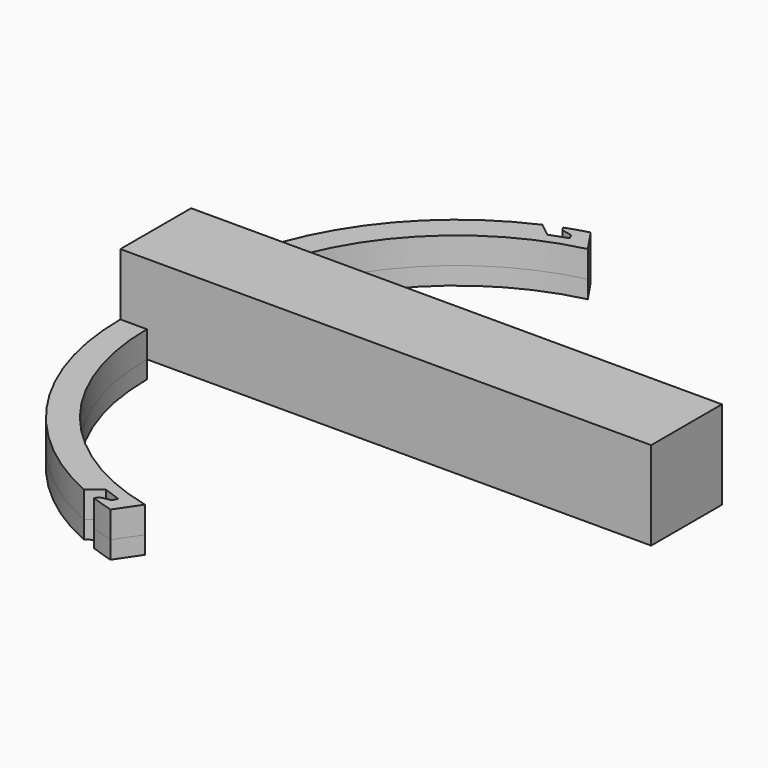
from build123d import *

# Parameters (mm, degrees)
F1_DEPTH = 3
F2_DEPTH = 10
F3_DEPTH = 2
F5_DEPTH = 45


with BuildPart() as f1:
    # F0 (on Top) → F1 (new body)
    with BuildSketch(Plane.XY):
        with BuildLine():
            Line((3, -5), (0, -5))
            ThreePointArc((0, -5), (4.837963, -21.336213), (17.791458, -32.403494))
            Line((17.791458, -32.403494), (19.316092, -31.19313))
            Line((19.316092, -31.19313), (21.280371, -31.899896))
            Line((21.280371, -31.899896), (20.994244, -32.450024))
            Line((20.994244, -32.450024), (19.821469, -32.690592))
            Line((19.821469, -32.690592), (19.52909, -33.113343))
            ThreePointArc((19.52909, -33.113343), (20.769204, -33.544569), (22.026998, -33.921121))
            Line((22.026998, -33.921121), (23.814403, -31.281902))
            ThreePointArc((23.814403, -31.281902), (8.833858, -21.762889), (3, -5))
        make_face()
        with BuildLine():
            ThreePointArc((17.791458, 32.403494), (4.837963, 21.336213), (0, 5))
            Line((0, 5), (3, 5))
            ThreePointArc((3, 5), (8.833858, 21.762889), (23.814403, 31.281902))
            Line((23.814403, 31.281902), (22.026998, 33.921121))
            ThreePointArc((22.026998, 33.921121), (20.769204, 33.544569), (19.52909, 33.113343))
            Line((19.52909, 33.113343), (19.821469, 32.690592))
            Line((19.821469, 32.690592), (20.994244, 32.450024))
            Line((20.994244, 32.450024), (21.280371, 31.899896))
            Line((21.280371, 31.899896), (19.316092, 31.19313))
            Line((19.316092, 31.19313), (17.791458, 32.403494))
        make_face()
    extrude(amount=F1_DEPTH)


with BuildPart() as f2:
    # F0 (on Top) → F2 (new body)
    with BuildSketch(Plane.XY):
        Polygon((0, 5), (0, 0), (0, -5), (3, -5), (60, -5), (60, 0), (60, 5), (3, 5), align=None)
    extrude(amount=F2_DEPTH)

    # F4 (on face) → F5 (cut)
    with BuildSketch(Plane(origin=(0, 0, 0), x_dir=(0, -1, 0), z_dir=(-1, 0, 0))):
        with BuildLine():
            ThreePointArc((-1.5, 0), (0, -1.5), (1.5, 0))
            Line((1.5, 0), (-1.5, 0))
        make_face()
        with BuildLine():
            Line((-1.5, 0), (1.5, 0))
            ThreePointArc((1.5, 0), (0, 1.5), (-1.5, 0))
        make_face()
    extrude(amount=-F5_DEPTH, mode=Mode.SUBTRACT)


with BuildPart() as f3:
    # F0 (on Top) → F3 (new body)
    with BuildSketch(Plane.XY):
        with BuildLine():
            ThreePointArc((17.791458, 32.403494), (4.837963, 21.336213), (0, 5))
            Line((0, 5), (3, 5))
            ThreePointArc((3, 5), (8.833858, 21.762889), (23.814403, 31.281902))
            Line((23.814403, 31.281902), (22.026998, 33.921121))
            ThreePointArc((22.026998, 33.921121), (20.769204, 33.544569), (19.52909, 33.113343))
            Line((19.52909, 33.113343), (19.821469, 32.690592))
            Line((19.821469, 32.690592), (20.994244, 32.450024))
            Line((20.994244, 32.450024), (21.280371, 31.899896))
            Line((21.280371, 31.899896), (19.316092, 31.19313))
            Line((19.316092, 31.19313), (17.791458, 32.403494))
        make_face()
        with BuildLine():
            Line((3, -5), (0, -5))
            ThreePointArc((0, -5), (4.837963, -21.336213), (17.791458, -32.403494))
            Line((17.791458, -32.403494), (19.316092, -31.19313))
            Line((19.316092, -31.19313), (21.280371, -31.899896))
            Line((21.280371, -31.899896), (20.994244, -32.450024))
            Line((20.994244, -32.450024), (19.821469, -32.690592))
            Line((19.821469, -32.690592), (19.52909, -33.113343))
            ThreePointArc((19.52909, -33.113343), (20.769204, -33.544569), (22.026998, -33.921121))
            Line((22.026998, -33.921121), (23.814403, -31.281902))
            ThreePointArc((23.814403, -31.281902), (8.833858, -21.762889), (3, -5))
        make_face()
    extrude(amount=-F3_DEPTH)


solid = Compound([f1.part, f2.part, f3.part])
